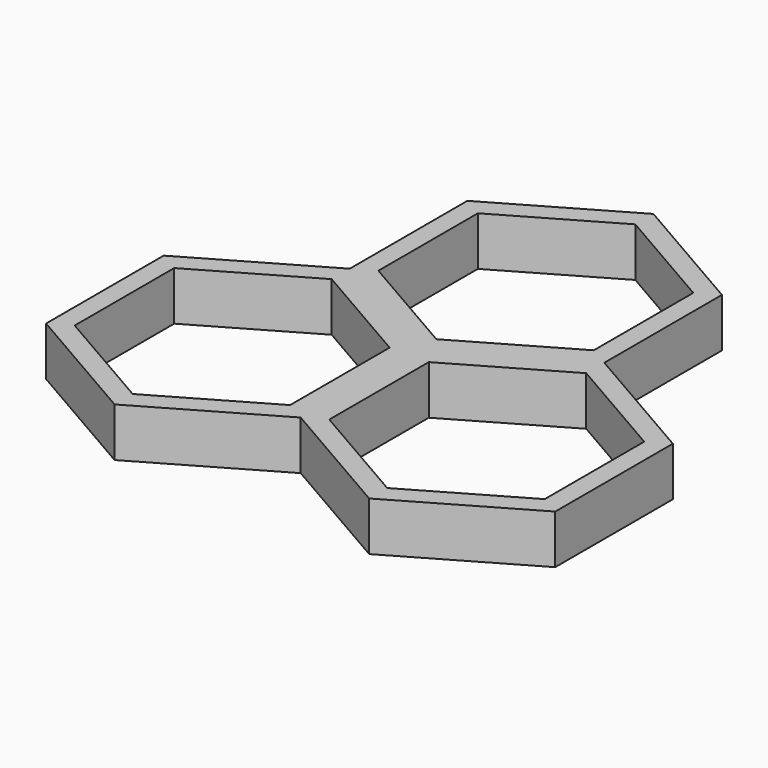
from build123d import *

# Parameters (mm, degrees)
F1_DEPTH = 6.35
F2_T     = -2.54
F3_COUNT = 3
F3_ANGLE = 240


with BuildPart() as f1:
    # F0 (on Top) → F1 (new body)
    with BuildSketch(Plane.XY):
        Polygon((16.51, 9.5320529443), (0, 19.0641058886), (-16.51, 9.5320529443), (-16.51, -9.5320529443), (0, -19.0641058886), (16.51, -9.5320529443), align=None)
    extrude(amount=F1_DEPTH)

    # F2
    f2_openings = [f1.faces().sort_by_distance(p)[0] for p in [
        (0, 0, 6.35),
        (0, 0, 0),
    ]]
    offset(amount=F2_T, openings=f2_openings)

    # F3: F1 ×3 about axis
    f3_axis = Axis((0, -19.0641058886, 3.175), (0, 0, -1))


with BuildPart() as f1_1:
    add(f1.part)
    for i in range(1, F3_COUNT):
        add(f1.part.rotate(f3_axis, i * F3_ANGLE / (F3_COUNT - 1)))


solid = f1_1.part
